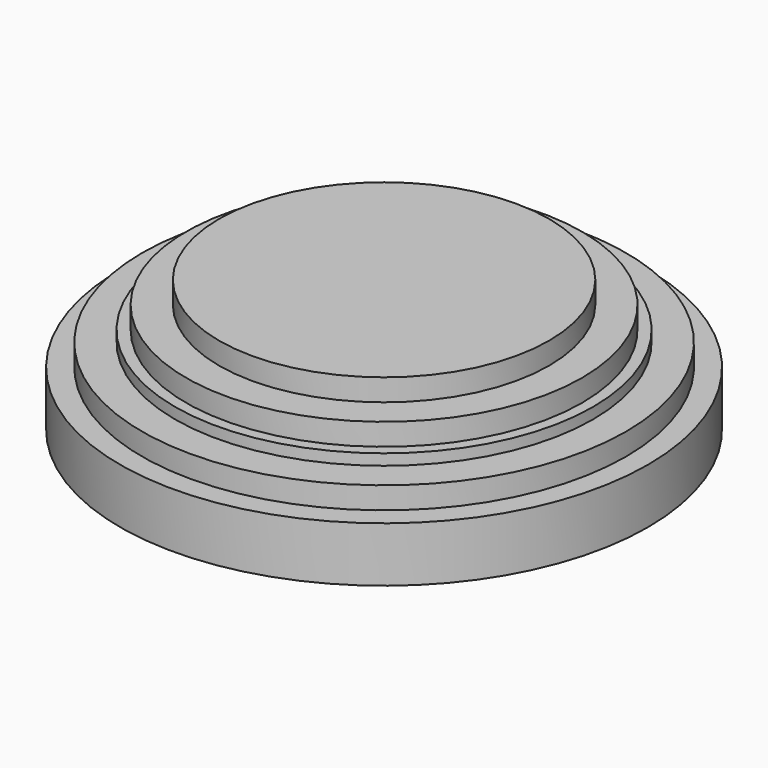
from build123d import *

# Parameters (mm, degrees)
SKETCH001_R      = 9
EXTRUDE001_DEPTH = 5
SKETCH002_R      = 9.5
EXTRUDE002_DEPTH = 4
SKETCH003_R      = 11
EXTRUDE003_DEPTH = 3.5
SKETCH004_R      = 12
EXTRUDE004_DEPTH = 2.5
SKETCH_R         = 7.5
EXTRUDE_DEPTH    = 6


with BuildPart() as extrude001:
    # Sketch001 → Extrude001 (new body)
    with BuildSketch(Plane.XY):
        Circle(SKETCH001_R)
    extrude(amount=EXTRUDE001_DEPTH)


with BuildPart() as extrude002:
    # Sketch002 → Extrude002 (new body)
    with BuildSketch(Plane.XY):
        Circle(SKETCH002_R)
    extrude(amount=EXTRUDE002_DEPTH)


with BuildPart() as extrude003:
    # Sketch003 → Extrude003 (new body)
    with BuildSketch(Plane.XY):
        Circle(SKETCH003_R)
    extrude(amount=EXTRUDE003_DEPTH)


with BuildPart() as extrude004:
    # Sketch004 → Extrude004 (new body)
    with BuildSketch(Plane.XY):
        Circle(SKETCH004_R)
    extrude(amount=EXTRUDE004_DEPTH)


with BuildPart() as model_fusion:
    # Sketch → Extrude (new body)
    with BuildSketch(Plane.XY):
        Circle(SKETCH_R)
    extrude(amount=EXTRUDE_DEPTH)

    # Fusion: union Extrude001, Extrude002, Extrude003, Extrude004
    add(extrude001.part)
    add(extrude002.part)
    add(extrude003.part)
    add(extrude004.part)


with BuildPart() as model_fusion_1:
    # Clone placement: moved
    add(model_fusion.part.moved(Location((-13.04323, -13.003353, -7))))


solid = model_fusion_1.part
